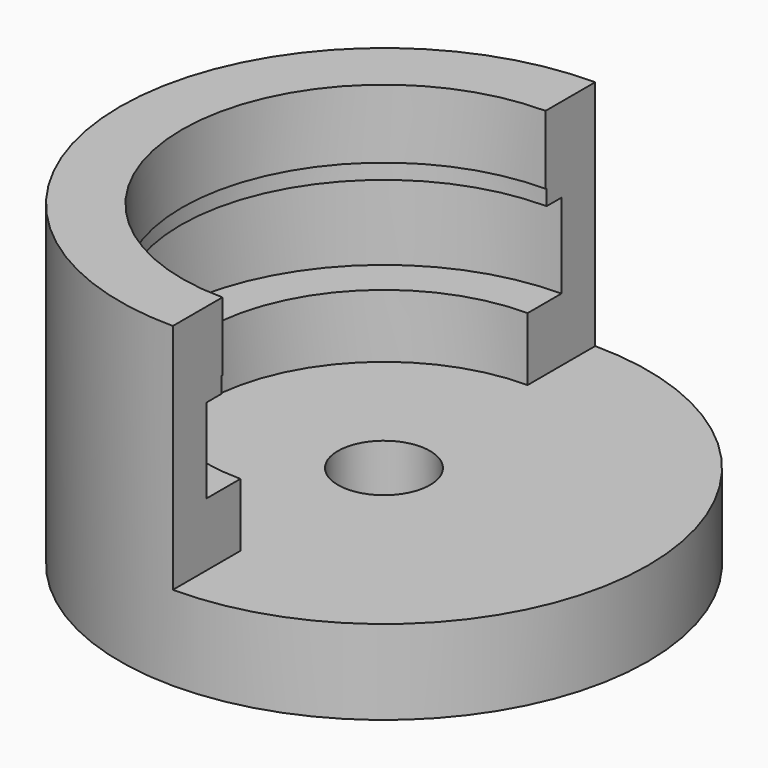
from build123d import *

# Parameters (mm, degrees)
F2_W          = 30
F2_H          = 30
F3_DEPTH      = 25.001
F3_DEPTH_BACK = 25.001


with BuildPart() as f1:
    # F0 (on Front) → F1 (revolve)
    with BuildSketch(Plane.XZ):
        Polygon((-4.365, -8), (-4.365, 0), (-17, 0), (-17, 6), (-21, 6), (-21, 14), (-19.25, 14), (-19.25, 15.5), (-19.125, 15.5), (-19.125, 22), (-25, 22), (-25, -8), align=None)
    revolve(axis=Axis((0, 0, 33.5195691121), (0, 0, 1)))

    # F2 (on Front) → F3 (cut, two sides)
    with BuildSketch(Plane.XZ) as f3_sk:
        with Locations((15, 15)):
            Rectangle(F2_W, F2_H)
    extrude(amount=-F3_DEPTH, mode=Mode.SUBTRACT)
    extrude(f3_sk.sketch, amount=F3_DEPTH_BACK, mode=Mode.SUBTRACT)


solid = f1.part
